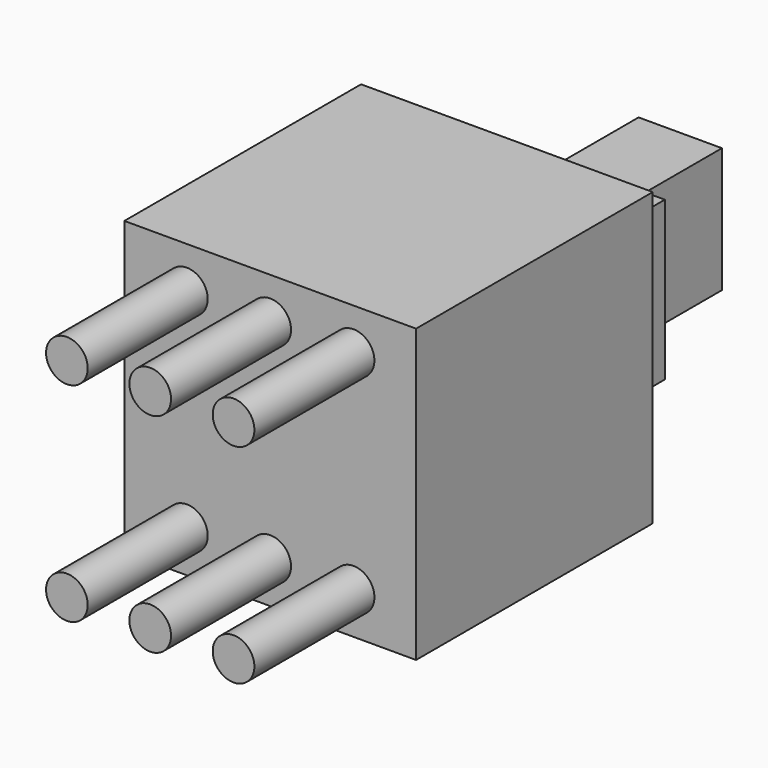
from build123d import *

# Parameters (mm, degrees)
SKETCH069_W             = 7
SKETCH069_H             = 7
PAD039_DEPTH            = 7.1
SKETCH070_R             = 0.5
PAD040_DEPTH            = 3.6
SKETCH071_W             = 3.9
SKETCH071_H             = 3.8
PAD041_DEPTH            = 9.4
SKETCH072_W             = 2
SKETCH072_H             = 3
PAD042_DEPTH            = 12.3
BODY103_PLACEMENT_ANGLE = 90


with BuildPart() as part:
    # Sketch069 → Pad039 (new body)
    with BuildSketch(Plane.XY):
        Rectangle(SKETCH069_W, SKETCH069_H)
    extrude(amount=PAD039_DEPTH)

    # Sketch070 → Pad040 (join)
    with BuildSketch(Plane.XY):
        with Locations((0, 2.5)):
            Circle(SKETCH070_R)
        with Locations((0, -2.5)):
            Circle(SKETCH070_R)
        with Locations((2, 2.5)):
            Circle(SKETCH070_R)
        with Locations((-2, 2.5)):
            Circle(SKETCH070_R)
        with Locations((-2, -2.5)):
            Circle(SKETCH070_R)
        with Locations((2, -2.5)):
            Circle(SKETCH070_R)
    extrude(amount=-PAD040_DEPTH)

    # Sketch071 → Pad041 (join)
    with BuildSketch(Plane.XY):
        Rectangle(SKETCH071_W, SKETCH071_H)
    extrude(amount=PAD041_DEPTH)

    # Sketch072 → Pad042 (join)
    with BuildSketch(Plane.XY):
        Rectangle(SKETCH072_W, SKETCH072_H)
    extrude(amount=PAD042_DEPTH)


with BuildPart() as part_1:
    # Body103 placement: moved
    add(part.part.moved(Location((78, -0.1, 45.8))).rotate(Axis((78, -0.1, 45.8), (-1, 0, 0)), BODY103_PLACEMENT_ANGLE))


with BuildPart() as part_2:
    # Body104 placement: moved
    add(part_1.part.moved(Location((0, 0, 16.4))))


solid = part_2.part
